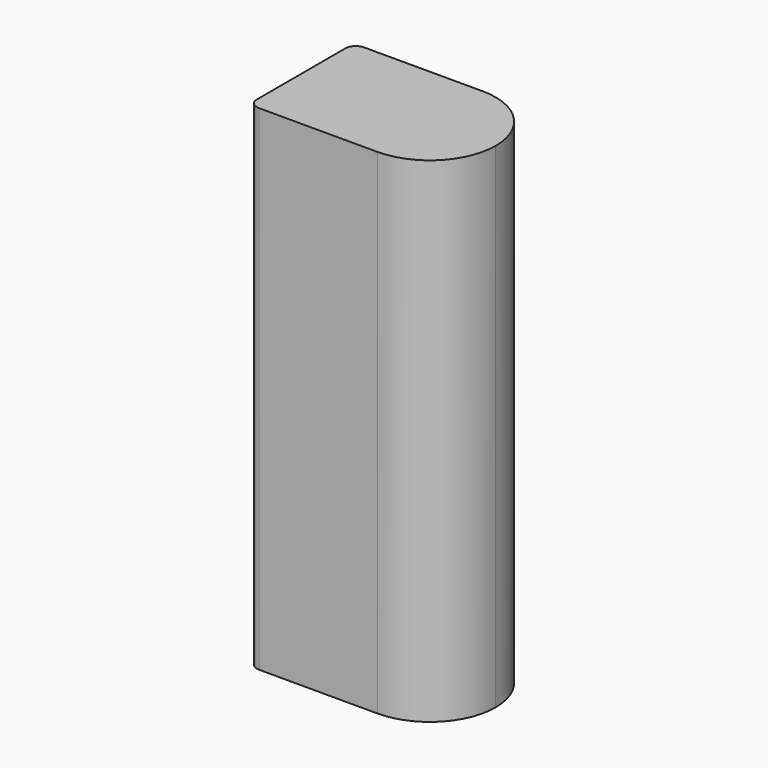
from build123d import *

# Parameters (mm, degrees)
F1_DEPTH = 47


with BuildPart() as f1:
    # F0 (on Top) → F1 (new body, symmetric)
    with BuildSketch(Plane.XY):
        with BuildLine():
            Line((24.5, 12.5), (2, 12.5))
            ThreePointArc((2, 12.5), (0.585786, 11.914214), (0, 10.5))
            Line((0, 10.5), (0, -10.5))
            ThreePointArc((0, -10.5), (0.585786, -11.914214), (2, -12.5))
            Line((2, -12.5), (24.5, -12.5))
            ThreePointArc((24.5, -12.5), (12, 0), (24.5, 12.5))
        make_face()
        with BuildLine():
            ThreePointArc((37, 0), (33.338835, 8.838835), (24.5, 12.5))
            ThreePointArc((24.5, 12.5), (12, 0), (24.5, -12.5))
            ThreePointArc((24.5, -12.5), (33.338835, -8.838835), (37, 0))
        make_face()
    extrude(amount=F1_DEPTH, both=True)


solid = f1.part
